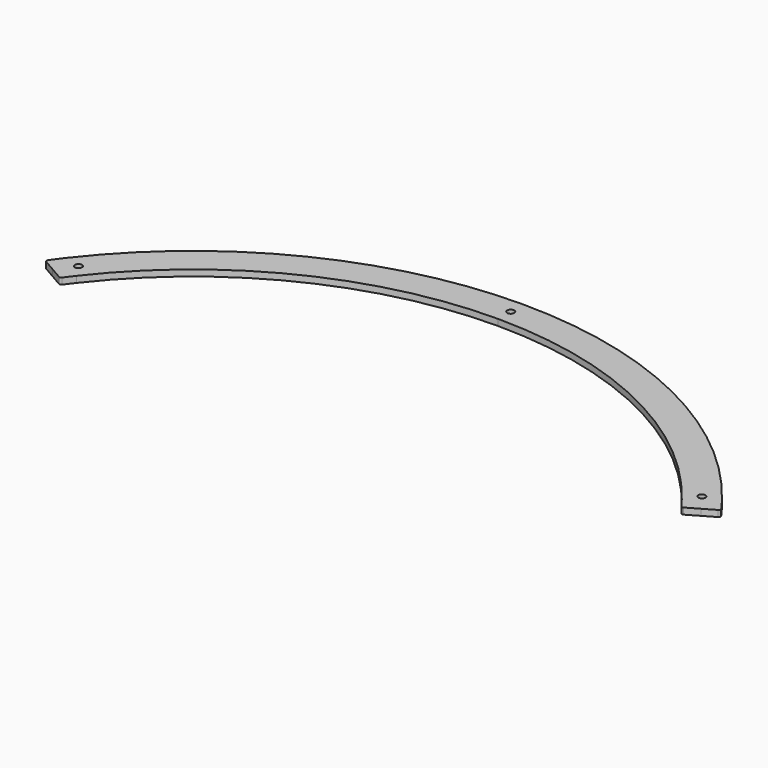
from build123d import *

# Parameters (mm, degrees)
PAD021_DEPTH                        = 3
SKETCH083_R                         = 1.7
POCKET041_DEPTH                     = 0.001
POCKET041_DEPTH_BACK                = 3.001
SKETCH084_R                         = 1.7
POCKET042_DEPTH                     = 0.001
POCKET042_DEPTH_BACK                = 3.001
BODY001003005003013_PLACEMENT_ANGLE = 60
CLONE020_PLACEMENT_ANGLE            = 60


with BuildPart() as part:
    # Sketch082 → Pad021 (new body)
    with BuildSketch(Plane.XY):
        with BuildLine():
            ThreePointArc((156.627412, 120.879551), (87.258751, 177.56667), (0, 197.848457))
            Line((0, 197.848457), (0, 182.848457))
            ThreePointArc((144.752611, 111.714995), (80.643177, 164.104346), (0, 182.848457))
            ThreePointArc((148.102078, 107.234942), (146.444477, 109.487778), (144.752611, 111.714995))
            ThreePointArc((148.102078, 107.234942), (148.703343, 106.843433), (149.41205, 106.955386))
            Line((155.154429, 110.27075), (149.41205, 106.955386))
            Line((155.154429, 110.27075), (160.726477, 113.487773))
            ThreePointArc((160.726477, 113.487773), (161.203737, 114.141753), (161.040435, 114.934722))
            ThreePointArc((161.040435, 114.934722), (158.861734, 117.927781), (156.627412, 120.879551))
        make_face()
    pad021 = extrude(amount=PAD021_DEPTH)

    # Mirrored029: Pad021 across Sketch082 V_Axis
    add(pad021.mirror(Plane(origin=(0, 0, 0), x_dir=(0, 0, 1), z_dir=(1, 0, 0))))

    # Sketch083 → Pocket041 (cut, two sides)
    with BuildSketch(Plane.XY) as pocket041_sk:
        with Locations((149.149219, 118.266841)):
            Circle(SKETCH083_R)
        with Locations((-149.149219, 118.266841)):
            Circle(SKETCH083_R)
    extrude(amount=-POCKET041_DEPTH, mode=Mode.SUBTRACT)
    extrude(pocket041_sk.sketch, amount=POCKET041_DEPTH_BACK, mode=Mode.SUBTRACT)

    # Sketch084 → Pocket042 (cut, two sides)
    with BuildSketch(Plane.XY) as pocket042_sk:
        with Locations((0, 190.348457)):
            Circle(SKETCH084_R)
    extrude(amount=-POCKET042_DEPTH, mode=Mode.SUBTRACT)
    extrude(pocket042_sk.sketch, amount=POCKET042_DEPTH_BACK, mode=Mode.SUBTRACT)


with BuildPart() as part_1:
    # Body001003005003013 placement: moved
    add(part.part.rotate(Axis((0, 0, 0), (0, 0, 1)), BODY001003005003013_PLACEMENT_ANGLE))


with BuildPart() as part_2:
    # Clone020 placement: moved
    add(part_1.part.moved(Location((1314, 822, 0))).rotate(Axis((1314, 822, 0), (0, 0, -1)), CLONE020_PLACEMENT_ANGLE))


solid = part_2.part
